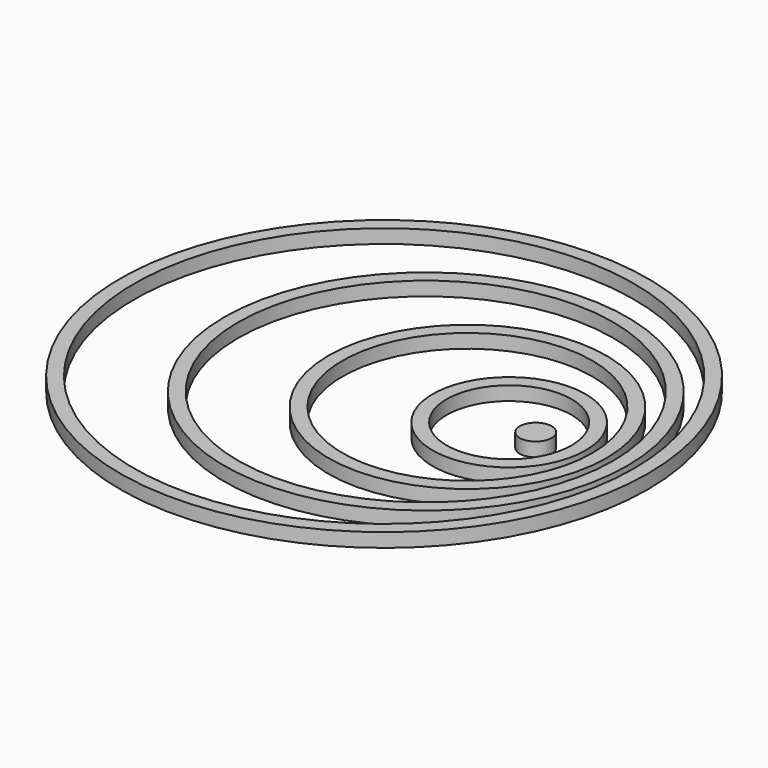
from build123d import *

# Parameters (mm, degrees)
F0_R     = 482.6
F0_R_2   = 457.2
F0_R_3   = 368.3
F0_R_4   = 342.9
F0_R_5   = 254
F0_R_6   = 228.6
F1_DEPTH = 25.4
F0_R_7   = 139.7
F0_R_8   = 114.3
F2_DEPTH = 25.4
F3_DEPTH = 25.4
F0_R_9   = 29.242045
F4_DEPTH = 25.4


with BuildPart() as f1:
    # F0 (on Top) → F1 (new body)
    with BuildSketch(Plane.XY):
        with Locations((-228.6, 0)):
            Circle(F0_R)
        with Locations((-228.6, 0)):
            Circle(F0_R_2, mode=Mode.SUBTRACT)
        with Locations((-152.4, 0)):
            Circle(F0_R_3)
        with Locations((-152.4, 0)):
            Circle(F0_R_4, mode=Mode.SUBTRACT)
        with Locations((-76.2, 0)):
            Circle(F0_R_5)
        with Locations((-76.2, 0)):
            Circle(F0_R_6, mode=Mode.SUBTRACT)
    extrude(amount=F1_DEPTH)

    # F0 (on Top) → F3 (join)
    with BuildSketch(Plane.XY):
        with Locations((-228.6, 0)):
            Circle(F0_R)
        with Locations((-228.6, 0)):
            Circle(F0_R_2, mode=Mode.SUBTRACT)
    extrude(amount=F3_DEPTH)


with BuildPart() as f2:
    # F0 (on Top) → F2 (new body)
    with BuildSketch(Plane.XY):
        Circle(F0_R_7)
        Circle(F0_R_8, mode=Mode.SUBTRACT)
    extrude(amount=F2_DEPTH)


with BuildPart() as f4:
    # F0 (on Top) → F4 (new body)
    with BuildSketch(Plane.XY):
        with Locations((48.641667, 0)):
            Circle(F0_R_9)
    extrude(amount=F4_DEPTH)


solid = Compound([f1.part, f2.part, f4.part])
